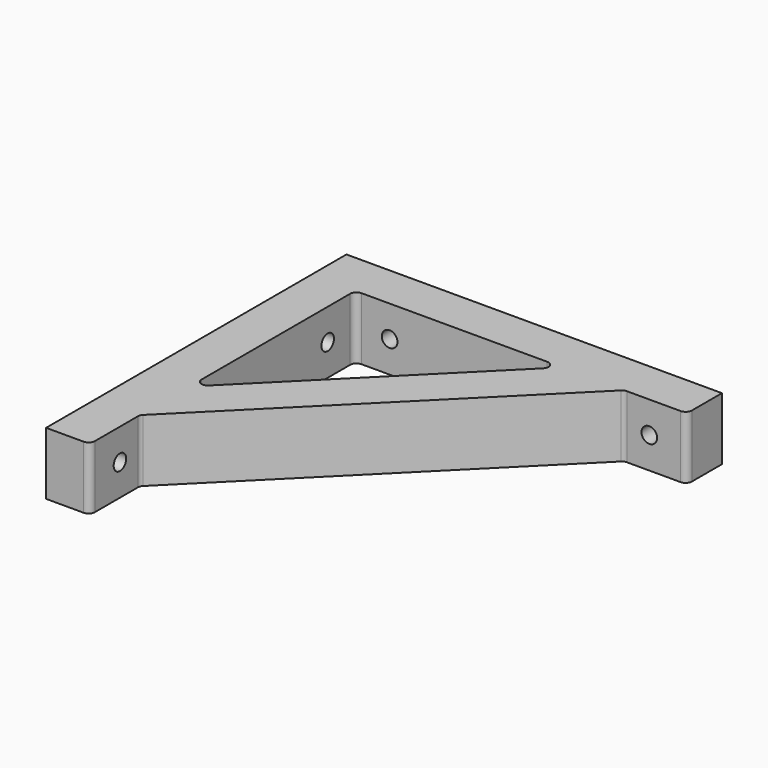
from build123d import *

# Parameters (mm, degrees)
F1_DEPTH = 20
F2_R     = 2.5
F3_DEPTH = 25
F4_R     = 2.5
F5_DEPTH = 25
F6_R     = 2


with BuildPart() as f1:
    # F0 (on Top) → F1 (new body)
    with BuildSketch(Plane.XY):
        Polygon((0, 120), (0, 0), (14, 0), (14, 20), (100, 106), (120, 106), (120, 120), align=None)
        Polygon((14, 39.79899), (14, 106), (80.20101, 106), align=None, mode=Mode.SUBTRACT)
    extrude(amount=F1_DEPTH)

    # F2 (on face) → F3 (cut)
    with BuildSketch(Plane(origin=(0, 0, 0), x_dir=(0, -1, 0), z_dir=(-1, 0, 0))):
        with Locations((-12, 10)):
            Circle(F2_R)
        with Locations((-95, 10)):
            Circle(F2_R)
    extrude(amount=-F3_DEPTH, mode=Mode.SUBTRACT)

    # F4 (on face) → F5 (cut)
    with BuildSketch(Plane(origin=(0, 120, 0), x_dir=(-1, 0, 0), z_dir=(0, 1, 0))):
        with Locations((-108, 10)):
            Circle(F4_R)
        with Locations((-25, 10)):
            Circle(F4_R)
    extrude(amount=-F5_DEPTH, mode=Mode.SUBTRACT)

    # F6
    f6_edges = [f1.edges().sort_by_distance(p)[0] for p in [
        (14, 39.79899, 10),
        (14, 106, 10),
        (80.20101, 106, 10),
        (14, 20, 10),
        (100, 106, 10),
        (120, 106, 10),
        (14, 0, 10),
    ]]
    fillet(f6_edges, radius=F6_R)


solid = f1.part
